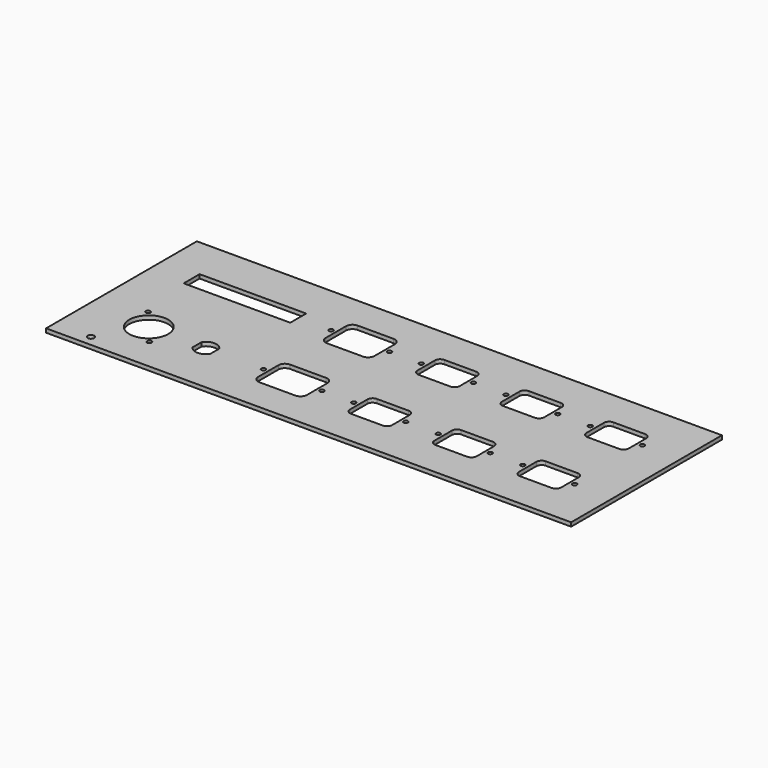
from build123d import *

# Parameters (mm, degrees)
F0_W     = 404
F0_H     = 145
F2_DEPTH = 3
F3_D     = 3.3
F3_DEPTH = 8.6
F3_TIP   = 0.9914200214
F1_R     = 1.5
F1_R_2   = 15
F1_R_3   = 1.75
F1_W     = 82
F1_H     = 15.3
F1_R_4   = 2.5
F4_DEPTH = 25


with BuildPart() as f2:
    # F0 (on Top) → F2 (new body)
    with BuildSketch(Plane.XY):
        with Locations((-14.1859020234, -7.6260944492)):
            Rectangle(F0_W, F0_H)
    extrude(amount=-F2_DEPTH)

    # F3
    with Locations(Plane.XY):
        with Locations((118.573140085, 24.8739055508), (158.573140085, 24.8739055508), (93.573140085, 24.8739055508), (53.573140085, 24.8739055508), (53.573140085, -40.1260944492), (93.573140085, -40.1260944492), (118.573140085, -40.1260944492), (158.573140085, -40.1260944492), (28.573140085, -40.1260944492), (-11.426859915, -40.1260944492), (-11.426859915, 24.8739055508), (28.573140085, 24.8739055508), (-35.926859915, 24.8739055508), (-80.926859915, 24.8739055508), (-80.926859915, -40.1260944492), (-35.926859915, -40.1260944492)):
            Hole(F3_D / 2, depth=F3_DEPTH)
            with Locations((0, 0, -(F3_DEPTH + F3_TIP / 2))):  # 118° drill point
                Cone(0, F3_D / 2, F3_TIP, mode=Mode.SUBTRACT)

    # F1 (on Top) → F4 (cut)
    with BuildSketch(Plane.XY):
        with BuildLine():
            Line((126.323140085, 12.4739055508), (150.823140085, 12.4739055508))
            ThreePointArc((150.823140085, 12.4739055508), (153.6515672098, 13.645478426), (154.823140085, 16.4739055508))
            Line((154.823140085, 16.4739055508), (154.823140085, 33.2739055508))
            ThreePointArc((154.823140085, 33.2739055508), (153.6515672098, 36.1023326755), (150.823140085, 37.2739055508))
            Line((150.823140085, 37.2739055508), (126.323140085, 37.2739055508))
            ThreePointArc((126.323140085, 37.2739055508), (123.4947129603, 36.1023326755), (122.323140085, 33.2739055508))
            Line((122.323140085, 33.2739055508), (122.323140085, 16.4739055508))
            ThreePointArc((122.323140085, 16.4739055508), (123.4947129603, 13.645478426), (126.323140085, 12.4739055508))
        make_face()
        with Locations((158.573140085, 24.8739055508)):
            Circle(F1_R)
        with Locations((118.573140085, 24.8739055508)):
            Circle(F1_R)
        with BuildLine():
            Line((-72.226859915, 10.1239055508), (-44.626859915, 10.1239055508))
            ThreePointArc((-44.626859915, 10.1239055508), (-41.091326009, 11.5883716448), (-39.626859915, 15.1239055508))
            Line((-39.626859915, 15.1239055508), (-39.626859915, 34.6239055508))
            ThreePointArc((-39.626859915, 34.6239055508), (-41.091326009, 38.1594394567), (-44.626859915, 39.6239055508))
            Line((-44.626859915, 39.6239055508), (-72.226859915, 39.6239055508))
            ThreePointArc((-72.226859915, 39.6239055508), (-75.7623938209, 38.1594394567), (-77.226859915, 34.6239055508))
            Line((-77.226859915, 34.6239055508), (-77.226859915, 15.1239055508))
            ThreePointArc((-77.226859915, 15.1239055508), (-75.7623938209, 11.5883716448), (-72.226859915, 10.1239055508))
        make_face()
        with Locations((-35.926859915, 24.8739055508)):
            Circle(F1_R)
        with Locations((-80.926859915, 24.8739055508)):
            Circle(F1_R)
        with BuildLine():
            Line((122.323140085, -31.7260944492), (122.323140085, -48.5260944492))
            ThreePointArc((122.323140085, -48.5260944492), (123.4947129603, -51.354521574), (126.323140085, -52.5260944492))
            Line((126.323140085, -52.5260944492), (150.823140085, -52.5260944492))
            ThreePointArc((150.823140085, -52.5260944492), (153.6515672098, -51.354521574), (154.823140085, -48.5260944492))
            Line((154.823140085, -48.5260944492), (154.823140085, -31.7260944492))
            ThreePointArc((154.823140085, -31.7260944492), (153.6515672098, -28.8976673245), (150.823140085, -27.7260944492))
            Line((150.823140085, -27.7260944492), (126.323140085, -27.7260944492))
            ThreePointArc((126.323140085, -27.7260944492), (123.4947129603, -28.8976673245), (122.323140085, -31.7260944492))
        make_face()
        with Locations((158.573140085, -40.1260944492)):
            Circle(F1_R)
        with Locations((118.573140085, -40.1260944492)):
            Circle(F1_R)
        with BuildLine():
            Line((57.323140085, 33.2739055508), (57.323140085, 16.4739055508))
            ThreePointArc((57.323140085, 16.4739055508), (58.4947129603, 13.645478426), (61.323140085, 12.4739055508))
            Line((61.323140085, 12.4739055508), (85.823140085, 12.4739055508))
            ThreePointArc((85.823140085, 12.4739055508), (88.6515672098, 13.645478426), (89.823140085, 16.4739055508))
            Line((89.823140085, 16.4739055508), (89.823140085, 33.2739055508))
            ThreePointArc((89.823140085, 33.2739055508), (88.6515672098, 36.1023326755), (85.823140085, 37.2739055508))
            Line((85.823140085, 37.2739055508), (61.323140085, 37.2739055508))
            ThreePointArc((61.323140085, 37.2739055508), (58.4947129603, 36.1023326755), (57.323140085, 33.2739055508))
        make_face()
        with Locations((93.573140085, 24.8739055508)):
            Circle(F1_R)
        with Locations((53.573140085, 24.8739055508)):
            Circle(F1_R)
        with BuildLine():
            Line((57.323140085, -31.7260944492), (57.323140085, -48.5260944492))
            ThreePointArc((57.323140085, -48.5260944492), (58.4947129603, -51.354521574), (61.323140085, -52.5260944492))
            Line((61.323140085, -52.5260944492), (85.823140085, -52.5260944492))
            ThreePointArc((85.823140085, -52.5260944492), (88.6515672098, -51.354521574), (89.823140085, -48.5260944492))
            Line((89.823140085, -48.5260944492), (89.823140085, -31.7260944492))
            ThreePointArc((89.823140085, -31.7260944492), (88.6515672098, -28.8976673245), (85.823140085, -27.7260944492))
            Line((85.823140085, -27.7260944492), (61.323140085, -27.7260944492))
            ThreePointArc((61.323140085, -27.7260944492), (58.4947129603, -28.8976673245), (57.323140085, -31.7260944492))
        make_face()
        with Locations((93.573140085, -40.1260944492)):
            Circle(F1_R)
        with Locations((53.573140085, -40.1260944492)):
            Circle(F1_R)
        with BuildLine():
            Line((-7.676859915, 33.2739055508), (-7.676859915, 16.4739055508))
            ThreePointArc((-7.676859915, 16.4739055508), (-6.5052870397, 13.645478426), (-3.676859915, 12.4739055508))
            Line((-3.676859915, 12.4739055508), (20.823140085, 12.4739055508))
            ThreePointArc((20.823140085, 12.4739055508), (23.6515672098, 13.645478426), (24.823140085, 16.4739055508))
            Line((24.823140085, 16.4739055508), (24.823140085, 33.2739055508))
            ThreePointArc((24.823140085, 33.2739055508), (23.6515672098, 36.1023326755), (20.823140085, 37.2739055508))
            Line((20.823140085, 37.2739055508), (-3.676859915, 37.2739055508))
            ThreePointArc((-3.676859915, 37.2739055508), (-6.5052870397, 36.1023326755), (-7.676859915, 33.2739055508))
        make_face()
        with Locations((28.573140085, 24.8739055508)):
            Circle(F1_R)
        with Locations((-11.426859915, 24.8739055508)):
            Circle(F1_R)
        with BuildLine():
            Line((-7.676859915, -31.7260944492), (-7.676859915, -48.5260944492))
            ThreePointArc((-7.676859915, -48.5260944492), (-6.5052870397, -51.354521574), (-3.676859915, -52.5260944492))
            Line((-3.676859915, -52.5260944492), (20.823140085, -52.5260944492))
            ThreePointArc((20.823140085, -52.5260944492), (23.6515672098, -51.354521574), (24.823140085, -48.5260944492))
            Line((24.823140085, -48.5260944492), (24.823140085, -31.7260944492))
            ThreePointArc((24.823140085, -31.7260944492), (23.6515672098, -28.8976673245), (20.823140085, -27.7260944492))
            Line((20.823140085, -27.7260944492), (-3.676859915, -27.7260944492))
            ThreePointArc((-3.676859915, -27.7260944492), (-6.5052870397, -28.8976673245), (-7.676859915, -31.7260944492))
        make_face()
        with Locations((28.573140085, -40.1260944492)):
            Circle(F1_R)
        with Locations((-11.426859915, -40.1260944492)):
            Circle(F1_R)
        with BuildLine():
            Line((-77.226859915, -30.3760944492), (-77.226859915, -49.8760944492))
            ThreePointArc((-77.226859915, -49.8760944492), (-75.7623938209, -53.4116283552), (-72.226859915, -54.8760944492))
            Line((-72.226859915, -54.8760944492), (-44.626859915, -54.8760944492))
            ThreePointArc((-44.626859915, -54.8760944492), (-41.091326009, -53.4116283552), (-39.626859915, -49.8760944492))
            Line((-39.626859915, -49.8760944492), (-39.626859915, -30.3760944492))
            ThreePointArc((-39.626859915, -30.3760944492), (-41.091326009, -26.8405605433), (-44.626859915, -25.3760944492))
            Line((-44.626859915, -25.3760944492), (-72.226859915, -25.3760944492))
            ThreePointArc((-72.226859915, -25.3760944492), (-75.7623938209, -26.8405605433), (-77.226859915, -30.3760944492))
        make_face()
        with Locations((-35.926859915, -40.1260944492)):
            Circle(F1_R)
        with Locations((-80.926859915, -40.1260944492)):
            Circle(F1_R)
        with Locations((-169.1859020234, -40.1260944492)):
            Circle(F1_R_2)
        with Locations((-156.6859020234, -55.1260944492)):
            Circle(F1_R_3)
        with Locations((-181.6859020234, -25.1260944492)):
            Circle(F1_R_3)
        with Locations((-147.1859020234, 24.8739055508)):
            Rectangle(F1_W, F1_H)
        with Locations((-188.1859020234, -71.9773098826)):
            Circle(F1_R_4)
        with BuildLine():
            Line((-131.9859020234, -35.8176724643), (-131.9859020234, -44.4345164341))
            ThreePointArc((-131.9859020234, -44.4345164341), (-125.1859020234, -48.1760944492), (-118.3859020234, -44.4345164341))
            Line((-118.3859020234, -44.4345164341), (-118.3859020234, -35.8176724643))
            ThreePointArc((-118.3859020234, -35.8176724643), (-125.1859020234, -32.0760944492), (-131.9859020234, -35.8176724643))
        make_face()
    extrude(amount=-F4_DEPTH, mode=Mode.SUBTRACT)


solid = f2.part
